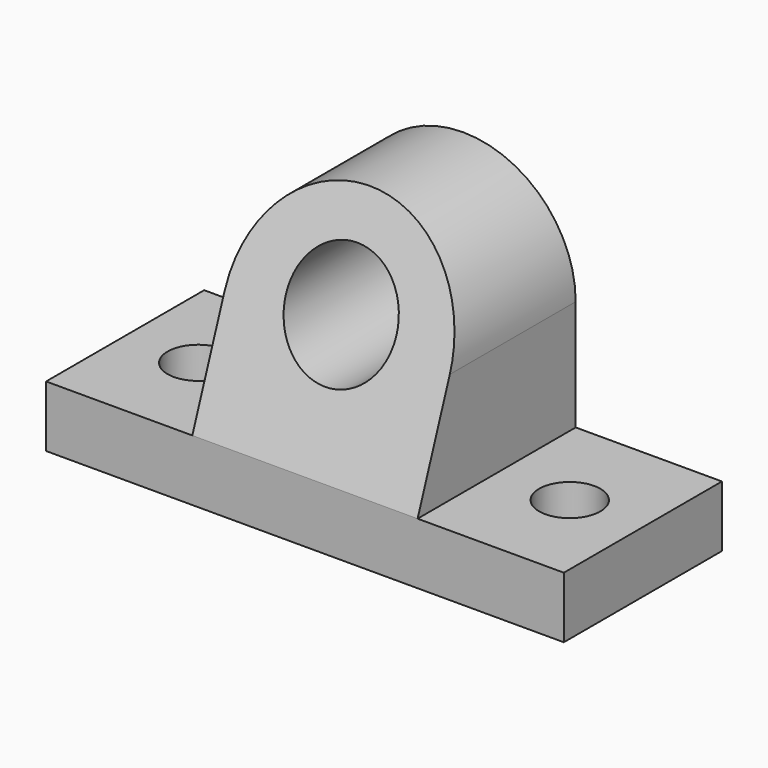
from build123d import *

# Parameters (mm, degrees)
F0_R      = 7.874
F1_DEPTH  = 15.748
F2_W      = 57.912
F2_H      = 50.8
F3_DEPTH  = 3.048
F3_FACE_W = 57.912
F3_FACE_H = 50.8
F4_DEPTH  = 25.4
F5_R      = 28.956
F6_DEPTH  = 50.8
F8_DEPTH  = 50.8
F10_DEPTH = 177.8


with BuildPart() as f1:
    # F0 (on Top) → F1 (new body)
    with BuildSketch(Plane.XY):
        Polygon((13.202934, 3.150654), (-53.345066, 3.150654), (-53.345066, -47.649346), (13.202934, -47.649346), (13.202934, -22.249346), align=None)
        with Locations((-34.549066, -22.249346)):
            Circle(F0_R, mode=Mode.SUBTRACT)
        with BuildLine():
            ThreePointArc((68.828934, -22.249346), (60.954934, -14.375346), (53.080934, -22.249346))
            ThreePointArc((53.080934, -22.249346), (60.954934, -30.123346), (68.828934, -22.249346))
        make_face()
        Polygon((79.750934, 3.150654), (13.202934, 3.150654), (13.202934, -22.249346), (13.202934, -47.649346), (79.750934, -47.649346), align=None)
        with BuildLine():
            ThreePointArc((68.828934, -22.249346), (60.954934, -30.123346), (53.080934, -22.249346))
            ThreePointArc((53.080934, -22.249346), (60.954934, -14.375346), (68.828934, -22.249346))
        make_face(mode=Mode.SUBTRACT)
    extrude(amount=F1_DEPTH)

    # F2 (on face) → F3 (join)
    with BuildSketch(Plane.XY.offset(15.748)):
        with Locations((13.202934, -22.249346)):
            Rectangle(F2_W, F2_H)
    extrude(amount=F3_DEPTH)

    # F3_face (on face) → F4 (join)
    with BuildSketch(Plane(origin=(13.202934, -22.249346, 18.796), x_dir=(1, 0, 0), z_dir=(0, 0, 1))):
        Rectangle(F3_FACE_W, F3_FACE_H)
    extrude(amount=F4_DEPTH)

    # F5 (on face) → F6 (join)
    with BuildSketch(Plane.XZ.offset(47.649346)):
        with Locations((13.202934, 44.196)):
            Circle(F5_R)
    extrude(amount=-F6_DEPTH)

    # F7 (on face) → F8 (cut)
    with BuildSketch(Plane.XZ.offset(47.649346)):
        with BuildLine():
            ThreePointArc((13.202934, 61.976), (3.145047, 37.694113), (27.426934, 47.752))
            ThreePointArc((27.426934, 47.752), (23.260821, 57.809887), (13.202934, 61.976))
        make_face()
    extrude(amount=-F8_DEPTH, mode=Mode.SUBTRACT)

    # F9 (on face) → F10 (cut)
    with BuildSketch(Plane.YZ.offset(42.158934)):
        Polygon((-47.649346, 73.572527), (-47.649346, 15.748), (-26.602939, 73.572527), align=None)
    extrude(amount=-F10_DEPTH, mode=Mode.SUBTRACT)


solid = f1.part
